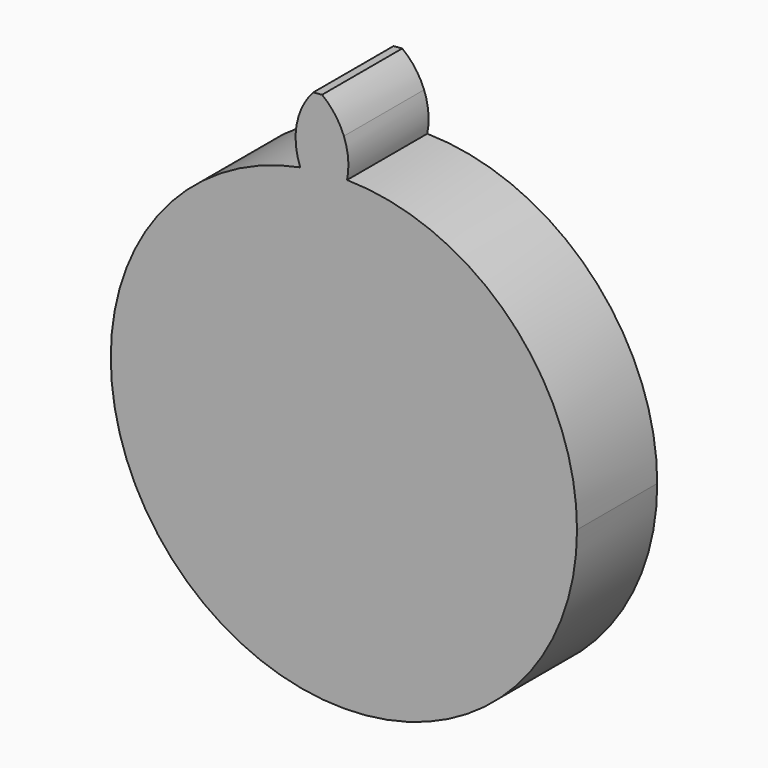
from build123d import *

# Parameters (mm, degrees)
F1_DEPTH = 100


with BuildPart() as f1:
    # F0 (on Front) → F1 (new body)
    with BuildSketch(Plane.XZ):
        with BuildLine():
            ThreePointArc((-43.498029, 228.394771), (-148.227795, -179.122223), (232.5, 0))
            ThreePointArc((232.5, 0), (165.521705, 163.275274), (3.17686, 232.478295))
            ThreePointArc((3.17686, 232.478295), (-20.26371, 231.615267), (-43.498029, 228.394771))
        make_face()
        with BuildLine():
            ThreePointArc((-43.498029, 228.394771), (-20.26371, 231.615267), (3.17686, 232.478295))
            ThreePointArc((3.17686, 232.478295), (4.255972, 251.465001), (0, 270))
            Line((0, 270), (-48.1297, 252.482222))
            ThreePointArc((-48.1297, 252.482222), (-46.916399, 240.226495), (-43.498029, 228.394771))
        make_face()
        with BuildLine():
            Line((-48.1297, 252.482222), (0, 270))
            ThreePointArc((0, 270), (-8.872924, 286.101732), (-21.764041, 299.209503))
            Line((-21.764041, 299.209503), (-30.523788, 298.443124))
            ThreePointArc((-30.523788, 298.443124), (-40.94292, 283.295971), (-46.885008, 265.898093))
            ThreePointArc((-46.885008, 265.898093), (-47.842694, 259.22127), (-48.1297, 252.482222))
        make_face()
    extrude(amount=F1_DEPTH)


solid = f1.part
